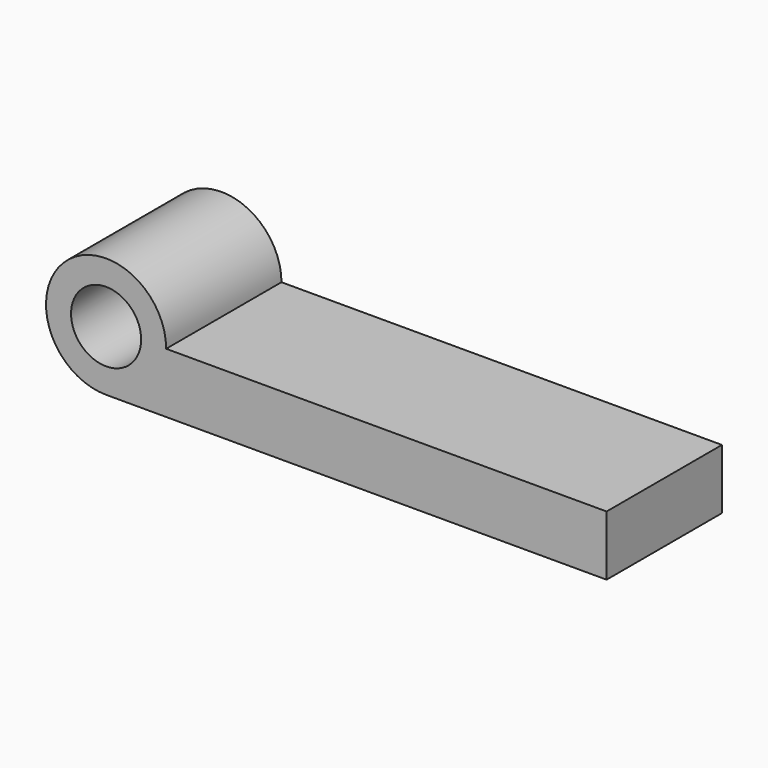
from build123d import *

# Parameters (mm, degrees)
F0_R     = 177.8
F1_DEPTH = 365.76


with BuildPart() as f1:
    # F0 (on Front) → F1 (new body, symmetric)
    with BuildSketch(Plane.XZ):
        with BuildLine():
            Line((2540, 0), (304.8, 0))
            ThreePointArc((304.8, 0), (-215.526147, 215.526147), (0, -304.8))
            Line((0, -304.8), (2540, -304.8))
            Line((2540, -304.8), (2540, 0))
        make_face()
        Circle(F0_R, mode=Mode.SUBTRACT)
    extrude(amount=F1_DEPTH, both=True)


solid = f1.part
